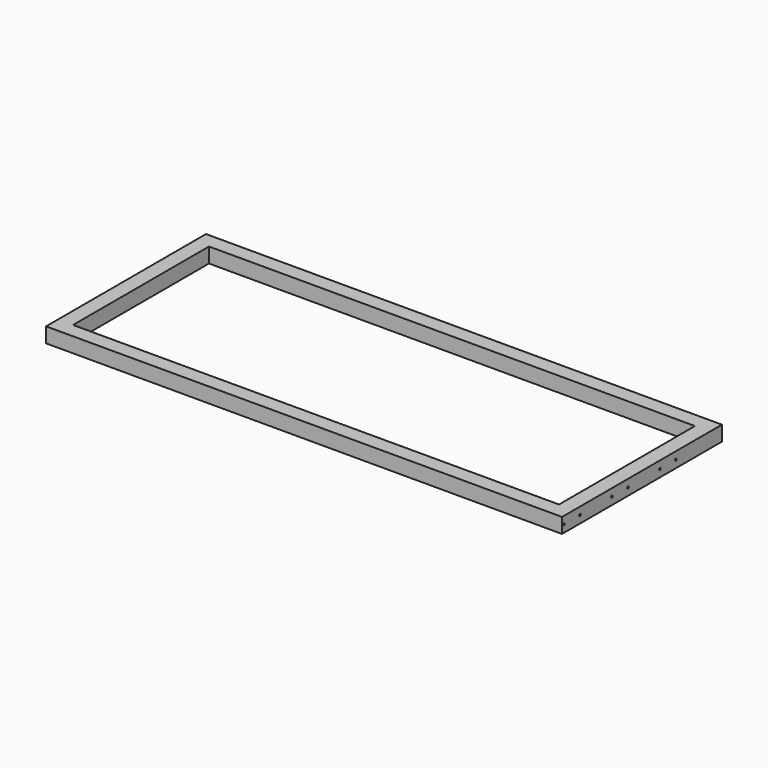
from build123d import *

# Parameters (mm, degrees)
F0_W           = 1311.275
F0_H           = 508
F0_W_2         = 1235.075
F0_H_2         = 431.8
F1_DEPTH       = 19.05
F4_D           = 5.1054
F4_DEPTH       = 16.51
F4_TIP         = 1.5338169022
F4_ON_F3_D     = 5.1054
F4_ON_F3_DEPTH = 16.51
F4_ON_F3_TIP   = 1.5338169022


with BuildPart() as f1:
    # F0 (on Top) → F1 (new body, symmetric)
    with BuildSketch(Plane.XY):
        Rectangle(F0_W, F0_H)
        Rectangle(F0_W_2, F0_H_2, mode=Mode.SUBTRACT)
    extrude(amount=F1_DEPTH, both=True)

    # F4
    with Locations(Plane.YZ.offset(655.6375)):
        with Locations((57.15, 0), (107.95, 0), (-196.85, 0), (-247.65, 0), (-44.45, 0), (-95.25, 0)):
            Hole(F4_D / 2, depth=F4_DEPTH)
            with Locations((0, 0, -(F4_DEPTH + F4_TIP / 2))):  # 118° drill point
                Cone(0, F4_D / 2, F4_TIP, mode=Mode.SUBTRACT)

    # F4 on F3
    with Locations(Plane(origin=(-655.6375, 0, 0), x_dir=(0, -1, 0), z_dir=(-1, 0, 0))):
        with Locations((247.65, 0), (196.85, 0), (-76.2, 0), (-127, 0)):
            Hole(F4_ON_F3_D / 2, depth=F4_ON_F3_DEPTH)
            with Locations((0, 0, -(F4_ON_F3_DEPTH + F4_ON_F3_TIP / 2))):  # 118° drill point
                Cone(0, F4_ON_F3_D / 2, F4_ON_F3_TIP, mode=Mode.SUBTRACT)


solid = f1.part
